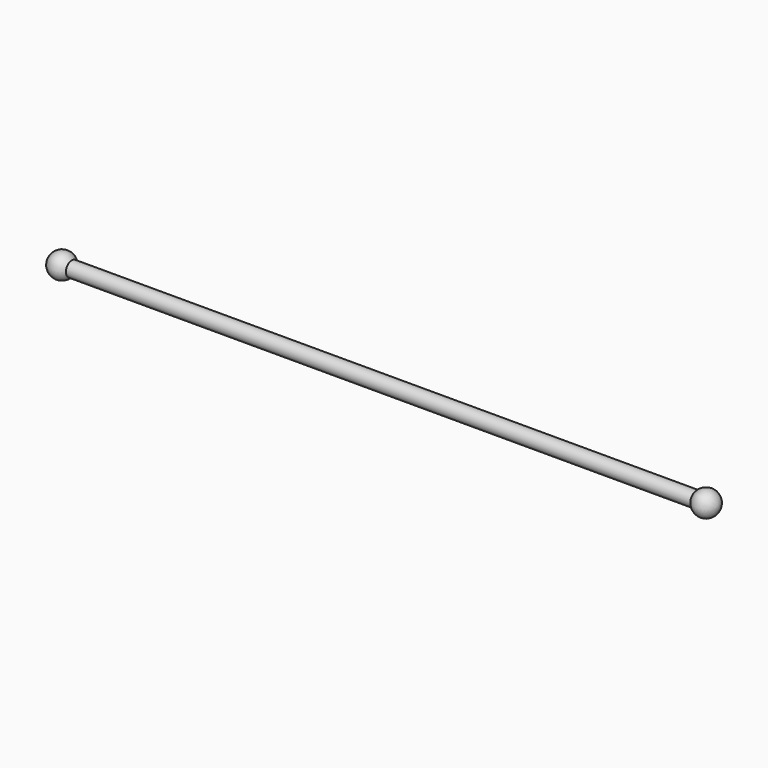
from build123d import *


with BuildPart() as f1:
    # F0 (on Top) → F1 (revolve)
    with BuildSketch(Plane.XY):
        with BuildLine():
            Line((-40.248569, 0), (-50.248569, 0))
            ThreePointArc((-50.248569, 0), (-46.829708, -4.743416), (-41.248569, -3))
            ThreePointArc((-41.248569, -3), (-40.505153, -1.581139), (-40.248569, 0))
        make_face()
        with BuildLine():
            Line((209.751431, 0), (-40.248569, 0))
            ThreePointArc((-40.248569, 0), (-40.505153, -1.581139), (-41.248569, -3))
            Line((-41.248569, -3), (210.751431, -3))
            ThreePointArc((210.751431, -3), (210.008014, -1.581139), (209.751431, 0))
        make_face()
        with BuildLine():
            Line((219.751431, 0), (209.751431, 0))
            ThreePointArc((209.751431, 0), (210.008014, -1.581139), (210.751431, -3))
            ThreePointArc((210.751431, -3), (216.33257, -4.743416), (219.751431, 0))
        make_face()
    revolve(axis=Axis((84.751431, 0, 0), (1, 0, 0)))


solid = f1.part
